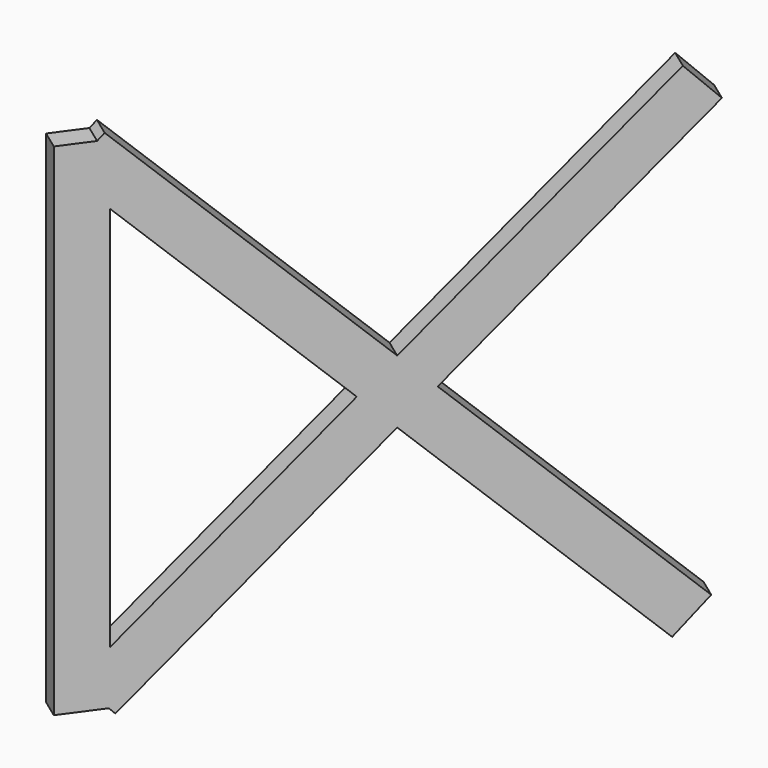
from build123d import *

# Parameters (mm, degrees)
BOX232_W                  = 0.5
BOX232_H                  = 1
BOX232_DEPTH              = 15
BOX232_ROLL_ANGLE         = 46
BOX233_W                  = 0.5
BOX233_H                  = 1
BOX233_DEPTH              = 15
BOX233_ROLL_ANGLE         = -46
BOX231_W                  = 0.5
BOX231_H                  = 1
BOX231_DEPTH              = 11
FUSION020_PLACEMENT_ANGLE = -36


with BuildPart() as cubo232:
    # Box232 → Box232 (new body)
    with BuildSketch(Plane.XY):
        with Locations((0.25, 0.5)):
            Rectangle(BOX232_W, BOX232_H)
    extrude(amount=BOX232_DEPTH)


with BuildPart() as cubo232_1:
    # Box232 roll: moved
    add(cubo232.part.rotate(Axis((0, 0, 0), (1, 0, 0)), BOX232_ROLL_ANGLE))


with BuildPart() as cubo232_2:
    # Box232 placement: moved
    add(cubo232_1.part.moved(Location((0, 11, 0.5))))


with BuildPart() as cubo233:
    # Box233 → Box233 (new body)
    with BuildSketch(Plane.XY):
        with Locations((0.25, 0.5)):
            Rectangle(BOX233_W, BOX233_H)
    extrude(amount=BOX233_DEPTH)


with BuildPart() as cubo233_1:
    # Box233 roll: moved
    add(cubo233.part.rotate(Axis((0, 0, 0), (1, 0, 0)), BOX233_ROLL_ANGLE))


with BuildPart() as cubo233_2:
    # Box233 placement: moved
    add(cubo233_1.part.moved(Location((0, 0.4, 1.1))))


with BuildPart() as fusion020:
    # Box231 → Box231 (new body)
    with BuildSketch(Plane.XY.offset(0.5)):
        with Locations((0.25, 0.5)):
            Rectangle(BOX231_W, BOX231_H)
    extrude(amount=BOX231_DEPTH)

    # Fusion020: union Cubo232, Cubo233
    add(cubo232_2.part)
    add(cubo233_2.part)


with BuildPart() as fusion020_1:
    # Fusion020 placement: moved
    add(fusion020.part.moved(Location((-192.7, 132.7, 0))).rotate(Axis((-192.7, 132.7, 0), (0, 0, 1)), FUSION020_PLACEMENT_ANGLE))


solid = fusion020_1.part
